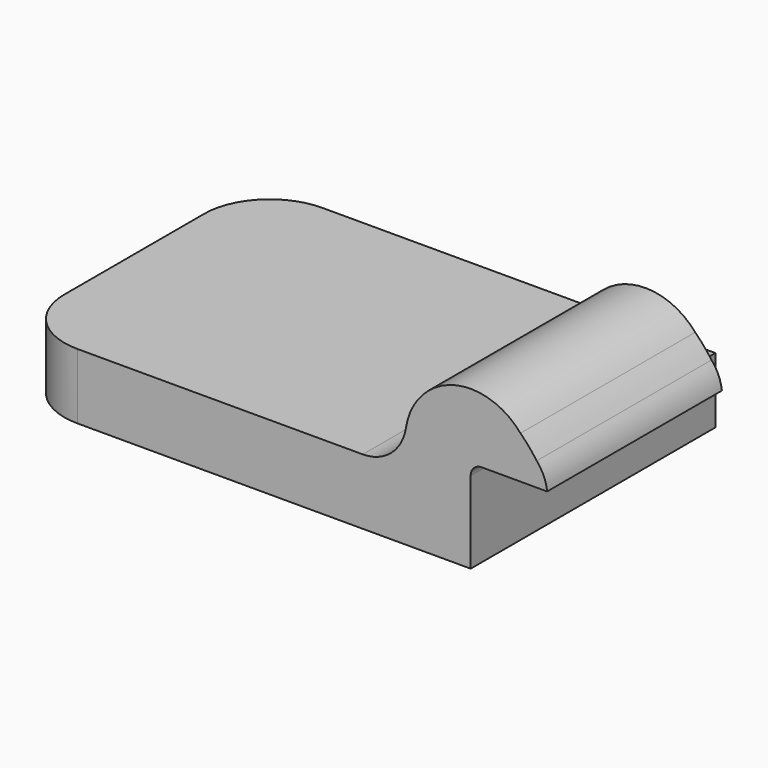
from build123d import *

# Parameters (mm, degrees)
F1_DEPTH = 19.05
F4_DEPTH = 63.5


with BuildPart() as f1:
    # F0 (on Top) → F1 (new body)
    with BuildSketch(Plane.XY):
        with BuildLine():
            Line((-139.7, -63.5), (-25.4, -63.5))
            Line((-25.4, -63.5), (-25.4, 25.4))
            Line((-25.4, 25.4), (-139.7, 25.4))
            ThreePointArc((-139.7, 25.4), (-153.170384, 19.820384), (-158.75, 6.35))
            Line((-158.75, 6.35), (-158.75, -44.45))
            ThreePointArc((-158.75, -44.45), (-153.170384, -57.920384), (-139.7, -63.5))
        make_face()
    extrude(amount=F1_DEPTH)

    # F3 (on offset) → F4 (join)
    with BuildSketch(Plane.XZ.offset(63.5)):
        with BuildLine():
            Line((-56.79078, 19.05), (-25.4, 19.05))
            Line((-25.4, 19.05), (-25.4, 23.8125))
            ThreePointArc((-25.4, 23.8125), (-24.470064, 26.057564), (-22.225, 26.9875))
            Line((-22.225, 26.9875), (-3.175, 26.9875))
            ThreePointArc((-3.175, 26.9875), (-4.166839, 30.646295), (-6.194382, 33.849356))
            ThreePointArc((-6.194382, 33.849356), (-8.443828, 36.717161), (-10.932128, 39.380368))
            ThreePointArc((-10.932128, 39.380368), (-30.643815, 45.301563), (-44.234468, 29.845))
            ThreePointArc((-44.234468, 29.845), (-48.511393, 22.119748), (-56.79078, 19.05))
        make_face()
    extrude(amount=-F4_DEPTH)


solid = f1.part
